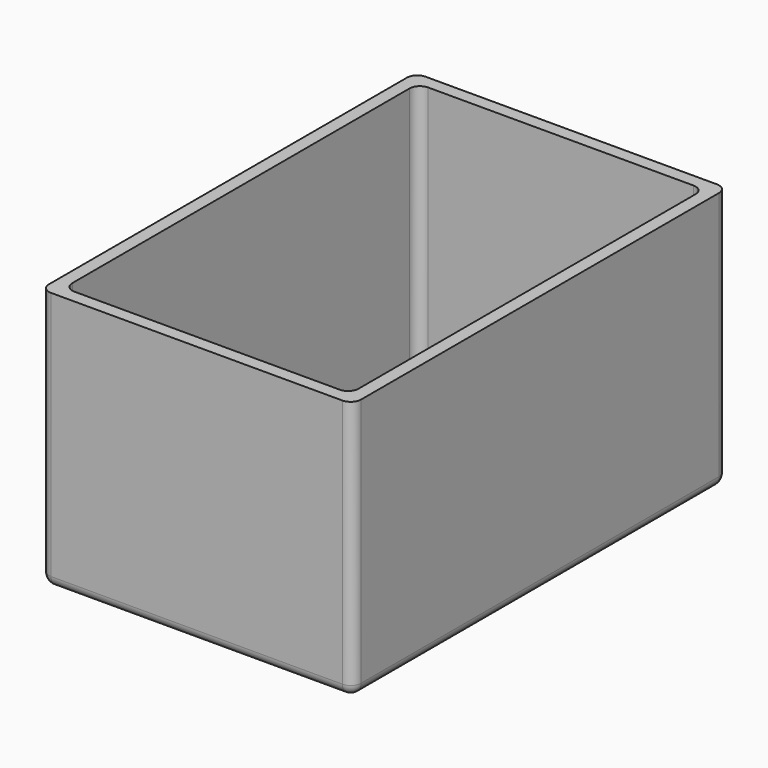
from build123d import *

# Parameters (mm, degrees)
F0_W     = 76.2
F0_H     = 114.3
F1_DEPTH = 63.5
F2_W     = 69.85
F2_H     = 107.95
F3_DEPTH = 60.325
F4_R     = 2.54
F5_R     = 31.75
F6_DEPTH = 3.175
F7_R     = 3.175
F8_DEPTH = 3.175


with BuildPart() as f1:
    # F0 (on Top) → F1 (new body)
    with BuildSketch(Plane.XY):
        Rectangle(F0_W, F0_H)
    extrude(amount=F1_DEPTH)

    # F2 (on face) → F3 (cut)
    with BuildSketch(Plane.XY.offset(63.5)):
        Rectangle(F2_W, F2_H)
    extrude(amount=-F3_DEPTH, mode=Mode.SUBTRACT)

    # F4
    f4_edges = [f1.edges().sort_by_distance(p)[0] for p in [
        (34.925, 53.975, 33.3375),
        (34.925, -53.975, 33.3375),
        (-34.925, -53.975, 33.3375),
        (-34.925, 53.975, 33.3375),
        (38.1, -57.15, 31.75),
        (38.1, 57.15, 31.75),
        (-38.1, -57.15, 31.75),
        (-38.1, 57.15, 31.75),
        (-38.1, 0, 0),
        (0, 57.15, 0),
        (0, -57.15, 0),
        (38.1, 0, 0),
    ]]
    fillet(f4_edges, radius=F4_R)

    # F5 (on face) → F6 (cut, through all)
    with BuildSketch(Plane.XY.offset(3.175)):
        Circle(F5_R)
    extrude(amount=-F6_DEPTH, mode=Mode.SUBTRACT)

    # F7 (on face) → F8 (cut, through all)
    with BuildSketch(Plane.XY.offset(3.175)):
        with Locations((30.1625, 30.1625)):
            Circle(F7_R)
        with Locations((30.1625, -30.1625)):
            Circle(F7_R)
        with Locations((-30.1625, -30.1625)):
            Circle(F7_R)
        with Locations((-30.1625, 30.1625)):
            Circle(F7_R)
    extrude(amount=-F8_DEPTH, mode=Mode.SUBTRACT)


solid = f1.part
